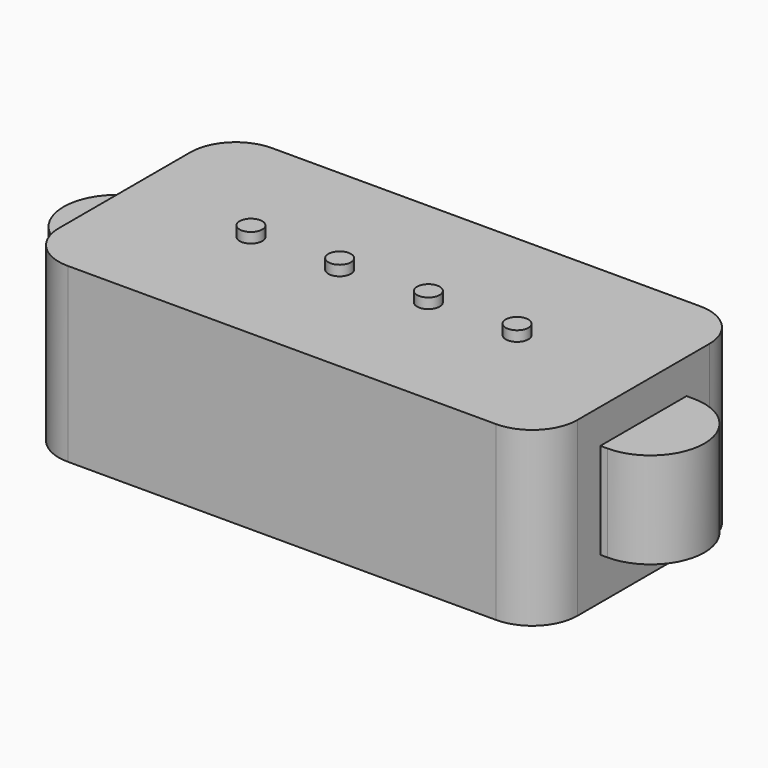
from build123d import *

# Parameters (mm, degrees)
F0_W     = 57.32
F0_H     = 28.2
F1_DEPTH = 19.05
F2_R     = 5
F5_DEPTH = 10.6
F6_R     = 1.25
F7_DEPTH = 1.13


with BuildPart() as f1:
    # F0 (on Top) → F1 (new body)
    with BuildSketch(Plane.XY):
        Rectangle(F0_W, F0_H)
    extrude(amount=F1_DEPTH)

    # F2
    f2_edges = [f1.edges().sort_by_distance(p)[0] for p in [
        (-28.66, 14.1, 9.525),
        (-28.66, -14.1, 9.525),
        (28.66, -14.1, 9.525),
        (28.66, 14.1, 9.525),
    ]]
    fillet(f2_edges, radius=F2_R)

    # F4 (on offset) → F5 (join)
    with BuildSketch(Plane.XY.offset(15.25)):
        with BuildLine():
            Line((-27.716206, 5.95), (-29.45, 5.95))
            ThreePointArc((-29.45, 5.95), (-35.4, 0), (-29.45, -5.95))
            Line((-29.45, -5.95), (-27.716206, -5.95))
            Line((-27.716206, -5.95), (-27.716206, 5.95))
        make_face()
        with BuildLine():
            Line((27.716206, -5.95), (29.45, -5.95))
            ThreePointArc((29.45, -5.95), (35.4, 0), (29.45, 5.95))
            Line((29.45, 5.95), (27.716206, 5.95))
            Line((27.716206, 5.95), (27.716206, -5.95))
        make_face()
    extrude(amount=-F5_DEPTH)

    # F6 (on face) → F7 (join)
    with BuildSketch(Plane.XY.offset(19.05)):
        with Locations((-14.7, 0)):
            Circle(F6_R)
        with Locations((-4.9, 0)):
            Circle(F6_R)
        with Locations((4.9, 0)):
            Circle(F6_R)
        with Locations((14.7, 0)):
            Circle(F6_R)
    extrude(amount=F7_DEPTH)


solid = f1.part
